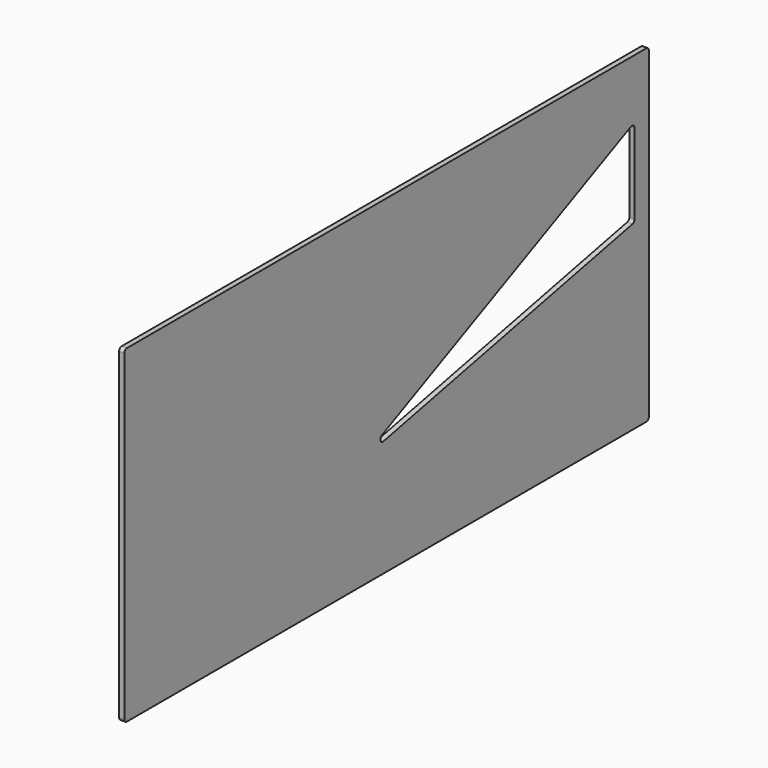
from build123d import *

# Parameters (mm, degrees)
F1_DEPTH = 0.2032
F2_SCALE = 12


with BuildPart() as f1:
    # F0 (on Right) → F1 (new body, symmetric)
    with BuildSketch(Plane.YZ):
        with BuildLine():
            ThreePointArc((7.6535586268, -3.8887472606), (7.7279535043, -4.0683523831), (7.9075586268, -4.1427472606))
            Line((7.9075586268, -4.1427472606), (58.4309190295, -4.1427472606))
            ThreePointArc((58.4309190295, -4.1427472606), (58.6105241519, -4.0683523831), (58.6849190295, -3.8887472606))
            Line((58.6849190295, -3.8887472606), (58.6849190295, 21.1963314346))
            ThreePointArc((58.6849190295, 21.1963314346), (58.6105241519, 21.375936557), (58.4309190295, 21.4503314346))
            Line((58.4309190295, 21.4503314346), (7.9075586268, 21.4503314346))
            ThreePointArc((7.9075586268, 21.4503314346), (7.7279535043, 21.375936557), (7.6535586268, 21.1963314346))
            Line((7.6535586268, 21.1963314346), (7.6535586268, -3.8887472606))
        make_face()
        with BuildLine():
            ThreePointArc((32.8605727571, 4.9196215098), (32.5678123501, 5.0882773482), (32.7015852855, 5.3985324844))
            Line((32.7015852855, 5.3985324844), (56.9304593399, 16.6896579893))
            ThreePointArc((56.9304593399, 16.6896579893), (57.1742493276, 16.6736356668), (57.2917498648, 16.4594303992))
            Line((57.2917498648, 16.4594303992), (57.2917498648, 10.2050660498))
            ThreePointArc((57.2917498648, 10.2050660498), (57.2347866945, 10.0447772861), (57.0894468115, 9.9563826653))
            Line((57.0894468115, 9.9563826653), (32.8605727571, 4.9196215098))
        make_face(mode=Mode.SUBTRACT)
    extrude(amount=F1_DEPTH, both=True)


with BuildPart() as f1_1:
    # F2: moved
    add(f1.part.scale(F2_SCALE))


solid = f1_1.part
